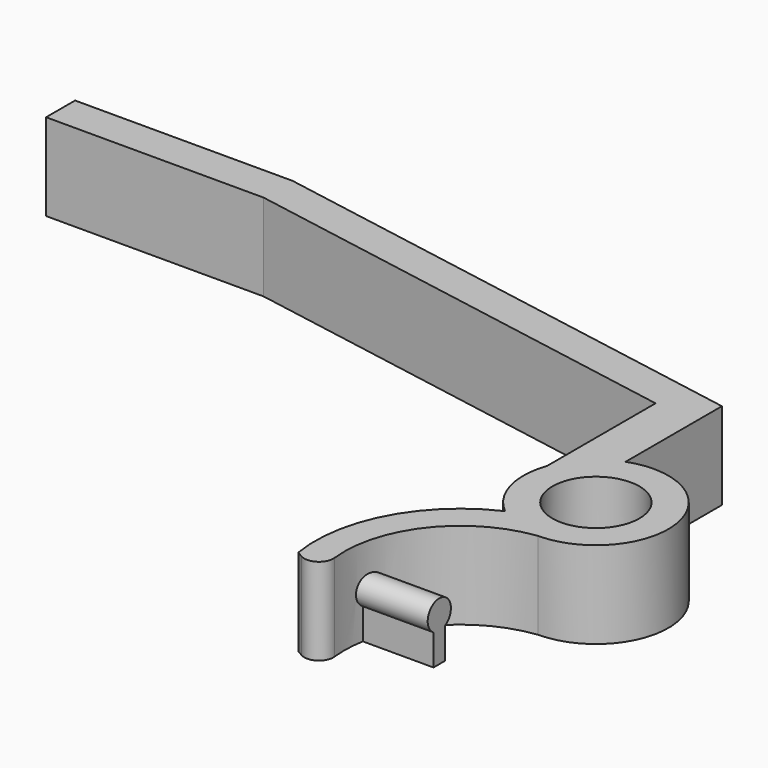
from build123d import *

# Parameters (mm, degrees)
F0_R     = 3
F1_DEPTH = 6
F4_DEPTH = 5


with BuildPart() as f1:
    # F0 (on Top) → F1 (new body)
    with BuildSketch(Plane.XY):
        with BuildLine():
            ThreePointArc((-6.94929, -13.836579), (-5.288381, -7.991926), (0, -5))
            ThreePointArc((0, -5), (4.924039, 0.868241), (-1.710101, 4.698463))
            ThreePointArc((-1.710101, 4.698463), (-3.547658, 3.523368), (-4.710101, 1.677782))
            ThreePointArc((-4.710101, 1.677782), (-4.820083, -1.329211), (-3.184404, -3.854811))
            ThreePointArc((-3.184404, -3.854811), (-7.835159, -8.253241), (-8.865645, -14.570978))
            Line((-8.865645, -14.570978), (-8.442951, -14.81502))
            ThreePointArc((-8.442951, -14.81502), (-7.39499, -14.785498), (-6.94929, -13.836579))
        make_face()
        Circle(F0_R, mode=Mode.SUBTRACT)
        with BuildLine():
            ThreePointArc((-4.710101, 1.677782), (-3.547658, 3.523368), (-1.710101, 4.698463))
            Line((-1.710101, 4.698463), (-1.710101, 13))
            Line((-1.710101, 13), (-36.178372, 19.077686))
            Line((-36.178372, 19.077686), (-51.178372, 19.077686))
            Line((-51.178372, 19.077686), (-51.178372, 16.577686))
            Line((-51.178372, 16.577686), (-36.178372, 16.577686))
            Line((-36.178372, 16.577686), (-4.710101, 11.028981))
            Line((-4.710101, 11.028981), (-4.710101, 1.677782))
        make_face()
    extrude(amount=F1_DEPTH)

    # F3 (on offset) → F4 (join)
    with BuildSketch(Plane.YZ.offset(-7)):
        with BuildLine():
            Line((-10.5, 0), (-10.5, 2.133975))
            ThreePointArc((-10.5, 2.133975), (-11, 4), (-11.5, 2.133975))
            Line((-11.5, 2.133975), (-11.5, 0))
            Line((-11.5, 0), (-10.5, 0))
        make_face()
    extrude(amount=F4_DEPTH)


solid = f1.part
